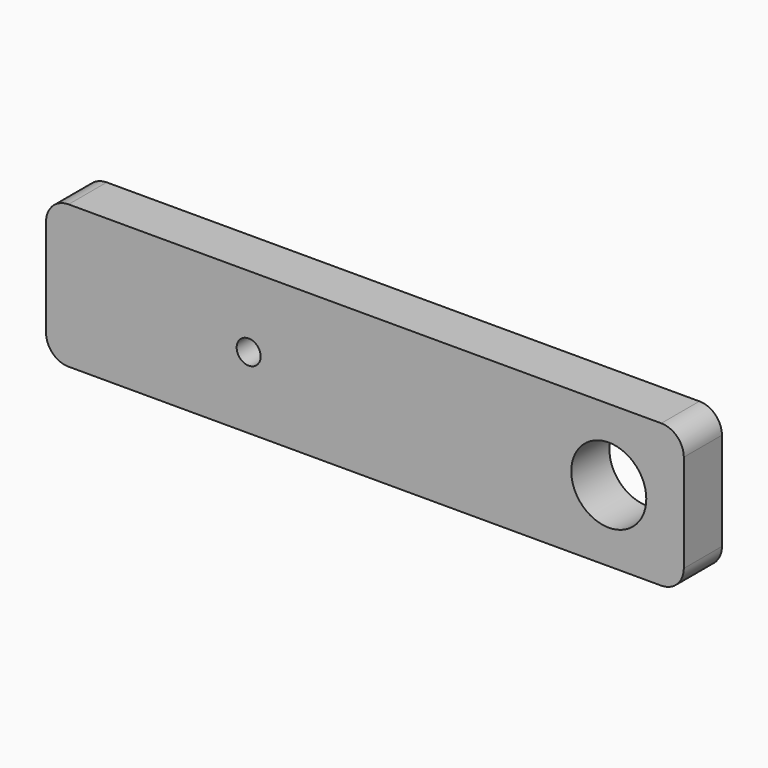
from build123d import *

# Parameters (mm, degrees)
F0_W     = 85
F0_H     = 19.05
F0_R     = 1.6
F0_R_2   = 5
F1_DEPTH = 6.35
F2_R     = 1.5
F3_DEPTH = 5
F4_R     = 3


with BuildPart() as f1:
    # F0 (on Front) → F1 (new body)
    with BuildSketch(Plane.XZ):
        Rectangle(F0_W, F0_H)
        with Locations((-15.5, 0)):
            Circle(F0_R, mode=Mode.SUBTRACT)
        with Locations((32.5, 0)):
            Circle(F0_R_2, mode=Mode.SUBTRACT)
    extrude(amount=F1_DEPTH)

    # F2 (on face) → F3 (cut)
    with BuildSketch(Plane(origin=(0, 0, -9.525), x_dir=(1, 0, 0), z_dir=(0, 0, -1))):
        with Locations((-25.5, 3.175)):
            Circle(F2_R)
        with Locations((25.5, 3.175)):
            Circle(F2_R)
    extrude(amount=-F3_DEPTH, mode=Mode.SUBTRACT)

    # F4
    f4_edges = [f1.edges().sort_by_distance(p)[0] for p in [
        (42.5, -3.175, 9.525),
        (42.5, -3.175, -9.525),
        (-42.5, -3.175, -9.525),
        (-42.5, -3.175, 9.525),
    ]]
    fillet(f4_edges, radius=F4_R)


solid = f1.part
